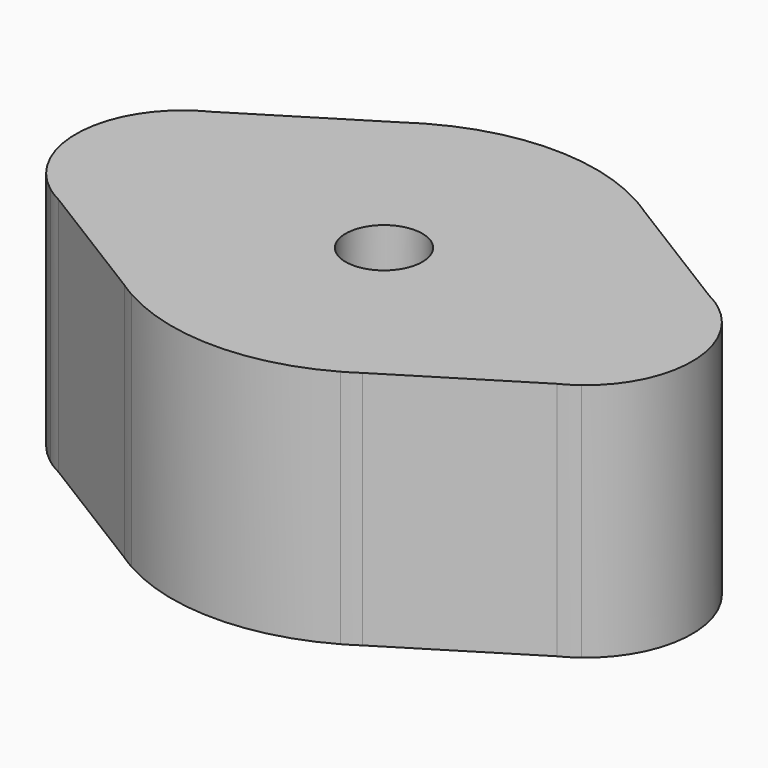
from build123d import *

# Parameters (mm, degrees)
F1_DEPTH = 25
F3_DEPTH = 18
F4_R     = 4
F5_DEPTH = 25.001


with BuildPart() as f1:
    # F0 (on Top) → F1 (new body)
    with BuildSketch(Plane.XY):
        with BuildLine():
            Line((-10.875151469, -19.2677633763), (-12.3969796785, -18.3256792466))
            ThreePointArc((-12.3969796785, -18.3256792466), (-11.6455958484, -18.8121163705), (-10.875151469, -19.2677633763))
        make_face()
        with BuildLine():
            Line((-25.9545587129, -9.9328922254), (-12.3969796785, -18.3256792466))
            Line((-12.3969796785, -18.3256792466), (-10.875151469, -19.2677633763))
            ThreePointArc((-10.875151469, -19.2677633763), (0, -22.125), (10.875151469, -19.2677633763))
            Line((10.875151469, -19.2677633763), (12.3969796785, -18.3256792466))
            Line((12.3969796785, -18.3256792466), (25.9545587129, -9.9328922254))
            Line((25.9545587129, -9.9328922254), (27.6815068609, -8.8638290861))
            ThreePointArc((27.6815068609, -8.8638290861), (32.1, 0), (27.6815068609, 8.8638290861))
            Line((27.6815068609, 8.8638290861), (25.9545587129, 9.9328922254))
            Line((25.9545587129, 9.9328922254), (12.3969796785, 18.3256792466))
            Line((12.3969796785, 18.3256792466), (10.875151469, 19.2677633763))
            ThreePointArc((10.875151469, 19.2677633763), (0, 22.125), (-10.875151469, 19.2677633763))
            Line((-10.875151469, 19.2677633763), (-12.3969796785, 18.3256792466))
            Line((-12.3969796785, 18.3256792466), (-25.9545587129, 9.9328922254))
            Line((-25.9545587129, 9.9328922254), (-27.6815068609, 8.8638290861))
            ThreePointArc((-27.6815068609, 8.8638290861), (-32.1, 0), (-27.6815068609, -8.8638290861))
            Line((-27.6815068609, -8.8638290861), (-25.9545587129, -9.9328922254))
        make_face()
        with BuildLine():
            ThreePointArc((-25.9545587129, 9.9328922254), (-26.8425362222, 9.4379431282), (-27.6815068609, 8.8638290861))
            Line((-27.6815068609, 8.8638290861), (-25.9545587129, 9.9328922254))
        make_face()
        with BuildLine():
            ThreePointArc((-10.875151469, 19.2677633763), (-11.6455958484, 18.8121163705), (-12.3969796785, 18.3256792466))
            Line((-12.3969796785, 18.3256792466), (-10.875151469, 19.2677633763))
        make_face()
        with BuildLine():
            ThreePointArc((12.3969796785, 18.3256792466), (11.6455958484, 18.8121163705), (10.875151469, 19.2677633763))
            Line((10.875151469, 19.2677633763), (12.3969796785, 18.3256792466))
        make_face()
        with BuildLine():
            Line((25.9545587129, 9.9328922254), (27.6815068609, 8.8638290861))
            ThreePointArc((27.6815068609, 8.8638290861), (26.8425362222, 9.4379431282), (25.9545587129, 9.9328922254))
        make_face()
        with BuildLine():
            Line((27.6815068609, -8.8638290861), (25.9545587129, -9.9328922254))
            ThreePointArc((25.9545587129, -9.9328922254), (26.8425362222, -9.4379431282), (27.6815068609, -8.8638290861))
        make_face()
        with BuildLine():
            ThreePointArc((-27.6815068609, -8.8638290861), (-26.8425362222, -9.4379431282), (-25.9545587129, -9.9328922254))
            Line((-25.9545587129, -9.9328922254), (-27.6815068609, -8.8638290861))
        make_face()
        with BuildLine():
            Line((12.3969796785, -18.3256792466), (10.875151469, -19.2677633763))
            ThreePointArc((10.875151469, -19.2677633763), (11.6455958484, -18.8121163705), (12.3969796785, -18.3256792466))
        make_face()
    extrude(amount=F1_DEPTH)

    # F2 (on Top) → F3 (cut)
    with BuildSketch(Plane.XY):
        with BuildLine():
            ThreePointArc((-24.4535832454, 7.2161457692), (-28.9999998122, 0), (-24.4535832454, -7.2161457692))
            Line((-24.4535832454, -7.2161457692), (-10.7099389872, -15.7241160243))
            ThreePointArc((-10.7099389872, -15.7241160243), (0, -19.0249998122), (10.7099389872, -15.7241160243))
            Line((10.7099389872, -15.7241160243), (24.4535832454, -7.2161457692))
            ThreePointArc((24.4535832454, -7.2161457692), (28.9999998122, 0), (24.4535832454, 7.2161457692))
            Line((24.4535832454, 7.2161457692), (10.7099389872, 15.7241160243))
            ThreePointArc((10.7099389872, 15.7241160243), (0, 19.0249998122), (-10.7099389872, 15.7241160243))
            Line((-10.7099389872, 15.7241160243), (-24.4535832454, 7.2161457692))
        make_face()
    extrude(amount=F3_DEPTH, mode=Mode.SUBTRACT)

    # F4 (on Top) → F5 (cut, through all)
    with BuildSketch(Plane.XY):
        Circle(F4_R)
    extrude(amount=F5_DEPTH, mode=Mode.SUBTRACT)


solid = f1.part
